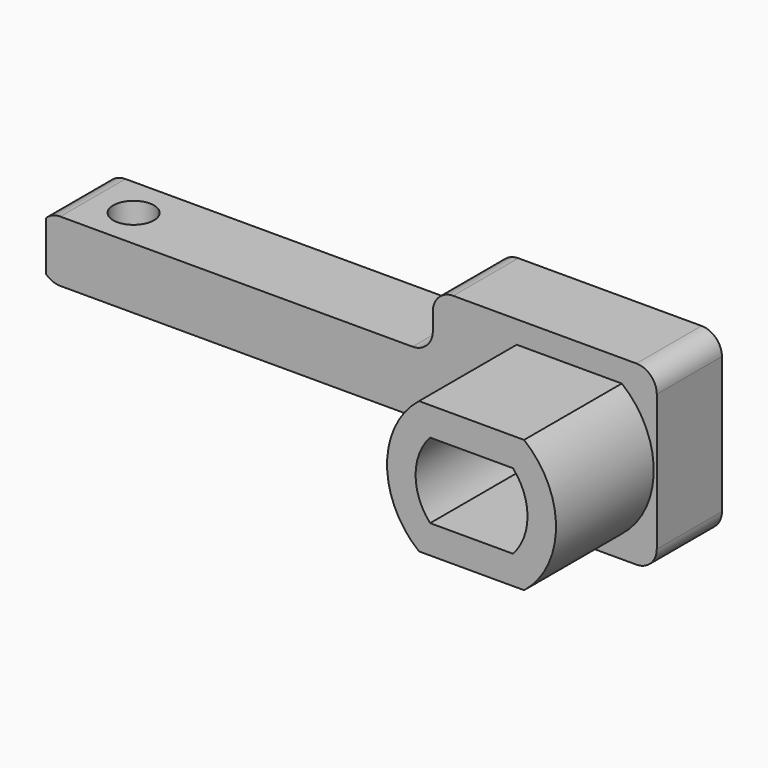
from build123d import *

# Parameters (mm, degrees)
F1_DEPTH = 4
F3_D     = 2
F4_R     = 1
F5_R     = 1
F7_DEPTH = 6


with BuildPart() as f1:
    # F0 (on Front) → F1 (new body)
    with BuildSketch(Plane.XZ):
        with BuildLine():
            Line((4.3, 0), (4.3, 4.35))
            Line((4.3, 4.35), (-5.7, 4.35))
            ThreePointArc((-5.7, 4.35), (-6.407107, 4.057107), (-6.7, 3.35))
            Line((-6.7, 3.35), (-6.7, 2.5))
            ThreePointArc((-6.7, 2.5), (-6.992893, 1.792893), (-7.7, 1.5))
            Line((-7.7, 1.5), (-25, 1.5))
            ThreePointArc((-25, 1.5), (-25.378059, 1.425782), (-25.7, 1.214143))
            Line((-25.7, 1.214143), (-25.7, -1.214143))
            ThreePointArc((-25.7, -1.214143), (-25.378059, -1.425782), (-25, -1.5))
            Line((-25, -1.5), (-7.7, -1.5))
            ThreePointArc((-7.7, -1.5), (-6.992893, -1.792893), (-6.7, -2.5))
            Line((-6.7, -2.5), (-6.7, -3.35))
            ThreePointArc((-6.7, -3.35), (-6.407107, -4.057107), (-5.7, -4.35))
            Line((-5.7, -4.35), (4.3, -4.35))
            Line((4.3, -4.35), (4.3, 0))
        make_face()
        with BuildLine():
            ThreePointArc((-2.034699, -1.85), (-2.75, 0), (-2.034699, 1.85))
            Line((-2.034699, 1.85), (2.034699, 1.85))
            ThreePointArc((2.034699, 1.85), (2.75, 0), (2.034699, -1.85))
            Line((2.034699, -1.85), (-2.034699, -1.85))
        make_face(mode=Mode.SUBTRACT)
    extrude(amount=F1_DEPTH)

    # F3 (through all)
    with Locations(Plane.XY.offset(4.35)):
        with Locations((-23, -2)):
            Hole(F3_D / 2)

    # F4
    f4_edges = [f1.edges().sort_by_distance(p)[0] for p in [
        (4.3, -2, 4.35),
    ]]
    fillet(f4_edges, radius=F4_R)

    # F5
    f5_edges = [f1.edges().sort_by_distance(p)[0] for p in [
        (4.3, -2, -4.35),
    ]]
    fillet(f5_edges, radius=F5_R)

    # F6 (on face) → F7 (join)
    with BuildSketch(Plane.XZ.offset(4)):
        with BuildLine():
            ThreePointArc((-2.580698, 3.25), (-4.15, 0), (-2.580698, -3.25))
            Line((-2.580698, -3.25), (2.580698, -3.25))
            ThreePointArc((2.580698, -3.25), (4.15, 0), (2.580698, 3.25))
            Line((2.580698, 3.25), (-2.580698, 3.25))
        make_face()
        with BuildLine():
            Line((2.034699, -1.85), (-2.034699, -1.85))
            ThreePointArc((-2.034699, -1.85), (-2.75, 0), (-2.034699, 1.85))
            Line((-2.034699, 1.85), (2.034699, 1.85))
            ThreePointArc((2.034699, 1.85), (2.75, 0), (2.034699, -1.85))
        make_face(mode=Mode.SUBTRACT)
    extrude(amount=F7_DEPTH)


solid = f1.part
